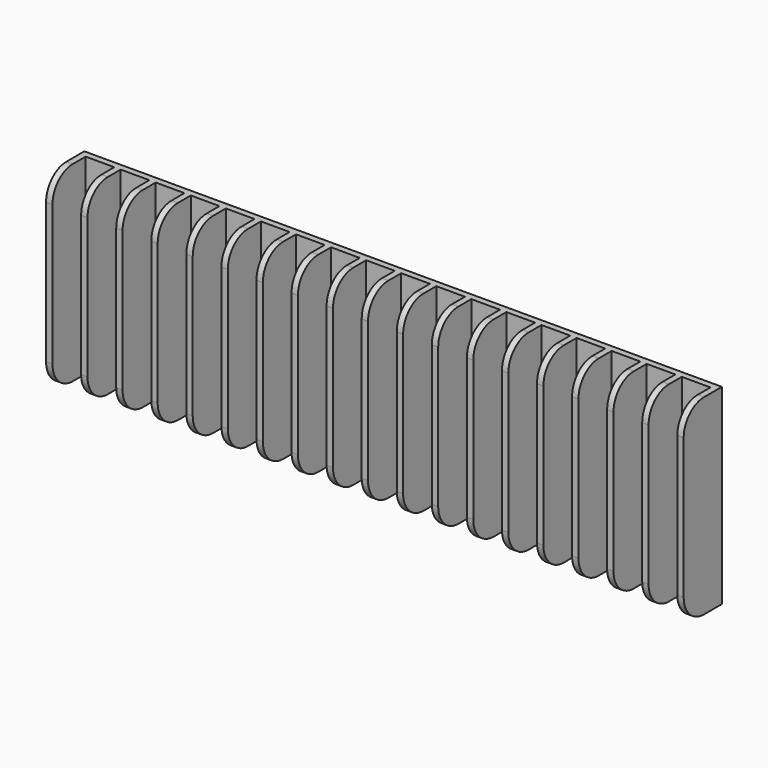
from build123d import *

# Parameters (mm, degrees)
BOX016_W     = 9
BOX016_H     = 13
BOX016_DEPTH = 60
BOX004_W     = 9
BOX004_H     = 13
BOX004_DEPTH = 60
BOX005_W     = 9
BOX005_H     = 13
BOX005_DEPTH = 60
BOX006_W     = 9
BOX006_H     = 13
BOX006_DEPTH = 60
BOX007_W     = 9
BOX007_H     = 13
BOX007_DEPTH = 60
BOX008_W     = 9
BOX008_H     = 13
BOX008_DEPTH = 60
BOX009_W     = 9
BOX009_H     = 13
BOX009_DEPTH = 60
BOX010_W     = 9
BOX010_H     = 13
BOX010_DEPTH = 60
BOX011_W     = 9
BOX011_H     = 13
BOX011_DEPTH = 60
BOX012_W     = 9
BOX012_H     = 13
BOX012_DEPTH = 60
BOX013_W     = 9
BOX013_H     = 13
BOX013_DEPTH = 60
BOX014_W     = 9
BOX014_H     = 13
BOX014_DEPTH = 60
BOX015_W     = 9
BOX015_H     = 13
BOX015_DEPTH = 60
BOX017_W     = 9
BOX017_H     = 13
BOX017_DEPTH = 60
BOX018_W     = 9
BOX018_H     = 13
BOX018_DEPTH = 60
BOX019_W     = 9
BOX019_H     = 13
BOX019_DEPTH = 60
BOX020_W     = 9
BOX020_H     = 13
BOX020_DEPTH = 60
BOX003_W     = 9
BOX003_H     = 13
BOX003_DEPTH = 60
BOX002_W     = 200
BOX002_H     = 15
BOX002_DEPTH = 60
FILLET_R     = 8


with BuildPart() as cube016:
    # Box016 → Box016 (new body)
    with BuildSketch(Plane(origin=(145, -15, 0), x_dir=(1, 0, 0), z_dir=(0, 0, 1))):
        with Locations((4.5, 6.5)):
            Rectangle(BOX016_W, BOX016_H)
    extrude(amount=BOX016_DEPTH)


with BuildPart() as cube004:
    # Box004 → Box004 (new body)
    with BuildSketch(Plane(origin=(13, -15, 0), x_dir=(1, 0, 0), z_dir=(0, 0, 1))):
        with Locations((4.5, 6.5)):
            Rectangle(BOX004_W, BOX004_H)
    extrude(amount=BOX004_DEPTH)


with BuildPart() as cube005:
    # Box005 → Box005 (new body)
    with BuildSketch(Plane(origin=(24, -15, 0), x_dir=(1, 0, 0), z_dir=(0, 0, 1))):
        with Locations((4.5, 6.5)):
            Rectangle(BOX005_W, BOX005_H)
    extrude(amount=BOX005_DEPTH)


with BuildPart() as cube006:
    # Box006 → Box006 (new body)
    with BuildSketch(Plane(origin=(35, -15, 0), x_dir=(1, 0, 0), z_dir=(0, 0, 1))):
        with Locations((4.5, 6.5)):
            Rectangle(BOX006_W, BOX006_H)
    extrude(amount=BOX006_DEPTH)


with BuildPart() as cube007:
    # Box007 → Box007 (new body)
    with BuildSketch(Plane(origin=(46, -15, 0), x_dir=(1, 0, 0), z_dir=(0, 0, 1))):
        with Locations((4.5, 6.5)):
            Rectangle(BOX007_W, BOX007_H)
    extrude(amount=BOX007_DEPTH)


with BuildPart() as cube008:
    # Box008 → Box008 (new body)
    with BuildSketch(Plane(origin=(57, -15, 0), x_dir=(1, 0, 0), z_dir=(0, 0, 1))):
        with Locations((4.5, 6.5)):
            Rectangle(BOX008_W, BOX008_H)
    extrude(amount=BOX008_DEPTH)


with BuildPart() as cube009:
    # Box009 → Box009 (new body)
    with BuildSketch(Plane(origin=(68, -15, 0), x_dir=(1, 0, 0), z_dir=(0, 0, 1))):
        with Locations((4.5, 6.5)):
            Rectangle(BOX009_W, BOX009_H)
    extrude(amount=BOX009_DEPTH)


with BuildPart() as cube010:
    # Box010 → Box010 (new body)
    with BuildSketch(Plane(origin=(79, -15, 0), x_dir=(1, 0, 0), z_dir=(0, 0, 1))):
        with Locations((4.5, 6.5)):
            Rectangle(BOX010_W, BOX010_H)
    extrude(amount=BOX010_DEPTH)


with BuildPart() as cube011:
    # Box011 → Box011 (new body)
    with BuildSketch(Plane(origin=(90, -15, 0), x_dir=(1, 0, 0), z_dir=(0, 0, 1))):
        with Locations((4.5, 6.5)):
            Rectangle(BOX011_W, BOX011_H)
    extrude(amount=BOX011_DEPTH)


with BuildPart() as cube012:
    # Box012 → Box012 (new body)
    with BuildSketch(Plane(origin=(101, -15, 0), x_dir=(1, 0, 0), z_dir=(0, 0, 1))):
        with Locations((4.5, 6.5)):
            Rectangle(BOX012_W, BOX012_H)
    extrude(amount=BOX012_DEPTH)


with BuildPart() as cube013:
    # Box013 → Box013 (new body)
    with BuildSketch(Plane(origin=(112, -15, 0), x_dir=(1, 0, 0), z_dir=(0, 0, 1))):
        with Locations((4.5, 6.5)):
            Rectangle(BOX013_W, BOX013_H)
    extrude(amount=BOX013_DEPTH)


with BuildPart() as cube014:
    # Box014 → Box014 (new body)
    with BuildSketch(Plane(origin=(123, -15, 0), x_dir=(1, 0, 0), z_dir=(0, 0, 1))):
        with Locations((4.5, 6.5)):
            Rectangle(BOX014_W, BOX014_H)
    extrude(amount=BOX014_DEPTH)


with BuildPart() as cube015:
    # Box015 → Box015 (new body)
    with BuildSketch(Plane(origin=(134, -15, 0), x_dir=(1, 0, 0), z_dir=(0, 0, 1))):
        with Locations((4.5, 6.5)):
            Rectangle(BOX015_W, BOX015_H)
    extrude(amount=BOX015_DEPTH)


with BuildPart() as cube017:
    # Box017 → Box017 (new body)
    with BuildSketch(Plane(origin=(156, -15, 0), x_dir=(1, 0, 0), z_dir=(0, 0, 1))):
        with Locations((4.5, 6.5)):
            Rectangle(BOX017_W, BOX017_H)
    extrude(amount=BOX017_DEPTH)


with BuildPart() as cube018:
    # Box018 → Box018 (new body)
    with BuildSketch(Plane(origin=(167, -15, 0), x_dir=(1, 0, 0), z_dir=(0, 0, 1))):
        with Locations((4.5, 6.5)):
            Rectangle(BOX018_W, BOX018_H)
    extrude(amount=BOX018_DEPTH)


with BuildPart() as cube019:
    # Box019 → Box019 (new body)
    with BuildSketch(Plane(origin=(178, -15, 0), x_dir=(1, 0, 0), z_dir=(0, 0, 1))):
        with Locations((4.5, 6.5)):
            Rectangle(BOX019_W, BOX019_H)
    extrude(amount=BOX019_DEPTH)


with BuildPart() as cube020:
    # Box020 → Box020 (new body)
    with BuildSketch(Plane(origin=(189, -15, 0), x_dir=(1, 0, 0), z_dir=(0, 0, 1))):
        with Locations((4.5, 6.5)):
            Rectangle(BOX020_W, BOX020_H)
    extrude(amount=BOX020_DEPTH)


with BuildPart() as compound:
    # Box003 → Box003 (new body)
    with BuildSketch(Plane(origin=(2, -15, 0), x_dir=(1, 0, 0), z_dir=(0, 0, 1))):
        with Locations((4.5, 6.5)):
            Rectangle(BOX003_W, BOX003_H)
    extrude(amount=BOX003_DEPTH)

    # Compound: union Cube016, Cube004, Cube005, Cube006, Cube007, Cube008, Cube009, Cube010, Cube011, Cube012, Cube013, Cube014, Cube015, Cube017, Cube018, Cube019, Cube020
    add(cube016.part)
    add(cube004.part)
    add(cube005.part)
    add(cube006.part)
    add(cube007.part)
    add(cube008.part)
    add(cube009.part)
    add(cube010.part)
    add(cube011.part)
    add(cube012.part)
    add(cube013.part)
    add(cube014.part)
    add(cube015.part)
    add(cube017.part)
    add(cube018.part)
    add(cube019.part)
    add(cube020.part)


with BuildPart() as left_heatsink:
    # Box002 → Box002 (new body)
    with BuildSketch(Plane(origin=(0, -15, 0), x_dir=(1, 0, 0), z_dir=(0, 0, 1))):
        with Locations((100, 7.5)):
            Rectangle(BOX002_W, BOX002_H)
    extrude(amount=BOX002_DEPTH)

    # Cut001: cut Compound
    add(compound.part, mode=Mode.SUBTRACT)

    # Fillet
    fillet_edges = [left_heatsink.edges().sort_by_distance(p)[0] for p in [
        (1, -15, 0),
        (1, -15, 60),
        (199, -15, 60),
        (188, -15, 60),
        (177, -15, 60),
        (166, -15, 60),
        (155, -15, 60),
        (144, -15, 60),
        (133, -15, 60),
        (122, -15, 60),
        (111, -15, 60),
        (100, -15, 60),
        (89, -15, 60),
        (78, -15, 60),
        (67, -15, 60),
        (56, -15, 60),
        (45, -15, 60),
        (34, -15, 60),
        (23, -15, 60),
        (12, -15, 60),
        (199, -15, 0),
        (188, -15, 0),
        (177, -15, 0),
        (166, -15, 0),
        (155, -15, 0),
        (144, -15, 0),
        (133, -15, 0),
        (122, -15, 0),
        (111, -15, 0),
        (100, -15, 0),
        (89, -15, 0),
        (78, -15, 0),
        (67, -15, 0),
        (56, -15, 0),
        (45, -15, 0),
        (34, -15, 0),
        (23, -15, 0),
        (12, -15, 0),
    ]]
    fillet(fillet_edges, radius=FILLET_R)


solid = left_heatsink.part
